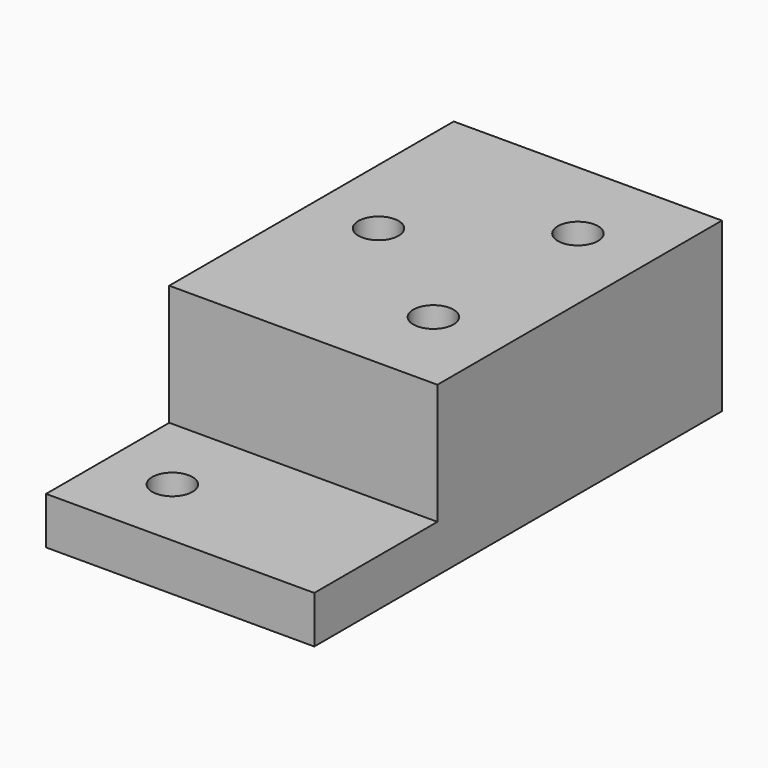
from build123d import *

# Parameters (mm, degrees)
F0_W     = 127
F0_H     = 72.898
F0_R     = 9.525
F0_H_2   = 168.402
F1_DEPTH = 79.502
F2_W     = 127
F2_H     = 72.898
F3_DEPTH = 57.15


with BuildPart() as f1:
    # F0 (on Top) → F1 (new body)
    with BuildSketch(Plane.XY):
        with Locations((63.5, 36.449)):
            Rectangle(F0_W, F0_H)
        with Locations((31.75, 35.052)):
            Circle(F0_R, mode=Mode.SUBTRACT)
        with Locations((63.5, 157.099)):
            Rectangle(F0_W, F0_H_2)
        with Locations((91.948, 114.3)):
            Circle(F0_R, mode=Mode.SUBTRACT)
        with Locations((31.75, 157.099)):
            Circle(F0_R, mode=Mode.SUBTRACT)
        with Locations((91.948, 199.898)):
            Circle(F0_R, mode=Mode.SUBTRACT)
    extrude(amount=F1_DEPTH)

    # F2 (on face) → F3 (cut)
    with BuildSketch(Plane.XY.offset(79.502)):
        with Locations((63.5, 36.449)):
            Rectangle(F2_W, F2_H)
    extrude(amount=-F3_DEPTH, mode=Mode.SUBTRACT)


solid = f1.part
